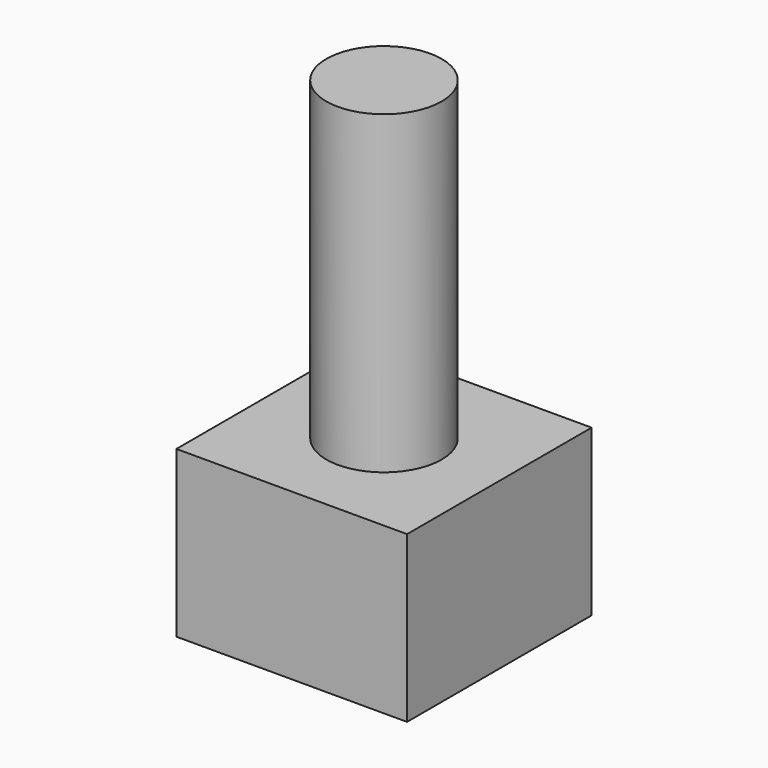
from build123d import *

# Parameters (mm, degrees)
BOX012_W          = 12
BOX012_H          = 12
BOX012_DEPTH      = 8.6
CYLINDER003_R     = 3
CYLINDER003_DEPTH = 25


with BuildPart() as part:
    # Box012 → Box012 (join)
    with BuildSketch(Plane(origin=(-6, -6, 0), x_dir=(1, 0, 0), z_dir=(0, 0, 1))):
        with Locations((6, 6)):
            Rectangle(BOX012_W, BOX012_H)
    extrude(amount=BOX012_DEPTH)

    # Cylinder003 → Cylinder003 (join)
    with BuildSketch(Plane.XY):
        Circle(CYLINDER003_R)
    extrude(amount=CYLINDER003_DEPTH)


solid = part.part
